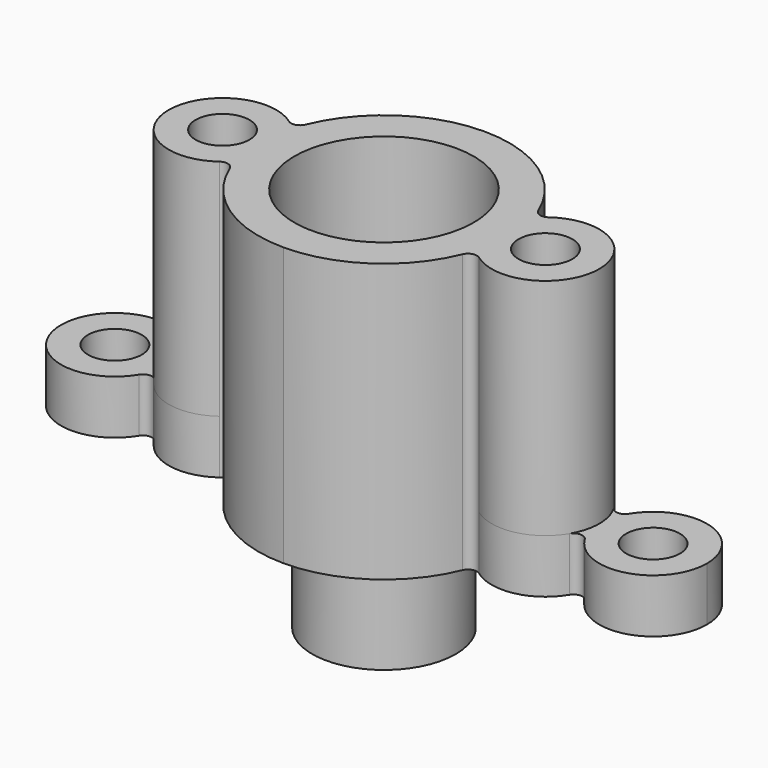
from build123d import *

# Parameters (mm, degrees)
F1_DEPTH = 3
F2_R     = 1.5
F3_DEPTH = 12.5
F4_R     = 4
F4_R_2   = 2
F5_DEPTH = 6


with BuildPart() as f1:
    # F0 (on Top) → F1 (new body)
    with BuildSketch(Plane.XY):
        with BuildLine():
            ThreePointArc((7.238095, 2.428105), (6.807286, 2.351969), (6.481481, 2.643936))
            ThreePointArc((6.481481, 2.643936), (3.904641, 5.8098), (0, 7))
            ThreePointArc((0, 7), (-3.904641, 5.8098), (-6.481481, 2.643936))
            ThreePointArc((-6.481481, 2.643936), (-6.807286, 2.351969), (-7.238095, 2.428105))
            ThreePointArc((-7.238095, 2.428105), (-9.598913, 2.939609), (-11.571429, 1.545236))
            ThreePointArc((-11.571429, 1.545236), (-12, 1.302776), (-12.428571, 1.545236))
            ThreePointArc((-12.428571, 1.545236), (-15.801784, 2.890872), (-18, 0))
            ThreePointArc((-18, 0), (-15.801784, -2.890872), (-12.428571, -1.545236))
            ThreePointArc((-12.428571, -1.545236), (-12, -1.302776), (-11.571429, -1.545236))
            ThreePointArc((-11.571429, -1.545236), (-9.598913, -2.939609), (-7.238095, -2.428105))
            ThreePointArc((-7.238095, -2.428105), (-6.807286, -2.351969), (-6.481481, -2.643936))
            ThreePointArc((-6.481481, -2.643936), (-3.904641, -5.8098), (0, -7))
            ThreePointArc((0, -7), (3.904641, -5.8098), (6.481481, -2.643936))
            ThreePointArc((6.481481, -2.643936), (6.807286, -2.351969), (7.238095, -2.428105))
            ThreePointArc((7.238095, -2.428105), (9.598913, -2.939609), (11.571429, -1.545236))
            ThreePointArc((11.571429, -1.545236), (12, -1.302776), (12.428571, -1.545236))
            ThreePointArc((12.428571, -1.545236), (15.801784, -2.890872), (18, 0))
            ThreePointArc((18, 0), (15.801784, 2.890872), (12.428571, 1.545236))
            ThreePointArc((12.428571, 1.545236), (12, 1.302776), (11.571429, 1.545236))
            ThreePointArc((11.571429, 1.545236), (9.598913, 2.939609), (7.238095, 2.428105))
        make_face()
        with BuildLine():
            ThreePointArc((-16.5, 0), (-15, 1.5), (-13.5, 0))
            ThreePointArc((-13.5, 0), (-15, -1.5), (-16.5, 0))
        make_face(mode=Mode.SUBTRACT)
        with BuildLine():
            ThreePointArc((0, -1.5), (-1.5, 0), (0, 1.5))
            ThreePointArc((0, 1.5), (1.5, 0), (0, -1.5))
        make_face(mode=Mode.SUBTRACT)
        with BuildLine():
            ThreePointArc((16.5, 0), (15, -1.5), (13.5, 0))
            ThreePointArc((13.5, 0), (15, 1.5), (16.5, 0))
        make_face(mode=Mode.SUBTRACT)
    extrude(amount=F1_DEPTH)

    # F2 (on face) → F3 (join)
    with BuildSketch(Plane.XY.offset(3)):
        with BuildLine():
            ThreePointArc((7.238095, 2.428105), (6.807286, 2.351969), (6.481481, 2.643936))
            ThreePointArc((6.481481, 2.643936), (3.904641, 5.8098), (0, 7))
            ThreePointArc((0, 7), (-3.904641, 5.8098), (-6.481481, 2.643936))
            ThreePointArc((-6.481481, 2.643936), (-6.807286, 2.351969), (-7.238095, 2.428105))
            ThreePointArc((-7.238095, 2.428105), (-12, 0), (-7.238095, -2.428105))
            ThreePointArc((-7.238095, -2.428105), (-6.807286, -2.351969), (-6.481481, -2.643936))
            ThreePointArc((-6.481481, -2.643936), (-3.904641, -5.8098), (0, -7))
            ThreePointArc((0, -7), (3.904641, -5.8098), (6.481481, -2.643936))
            ThreePointArc((6.481481, -2.643936), (6.807286, -2.351969), (7.238095, -2.428105))
            ThreePointArc((7.238095, -2.428105), (12, 0), (7.238095, 2.428105))
        make_face()
        with Locations((-9, 0)):
            Circle(F2_R, mode=Mode.SUBTRACT)
        with BuildLine():
            ThreePointArc((0, -5), (-5, 0), (0, 5))
            ThreePointArc((0, 5), (5, 0), (0, -5))
        make_face(mode=Mode.SUBTRACT)
        with Locations((9, 0)):
            Circle(F2_R, mode=Mode.SUBTRACT)
    extrude(amount=F3_DEPTH)

    # F4 (on face) → F5 (join)
    with BuildSketch(Plane.XY):
        Circle(F4_R)
        Circle(F4_R_2, mode=Mode.SUBTRACT)
    extrude(amount=-F5_DEPTH)


solid = f1.part
